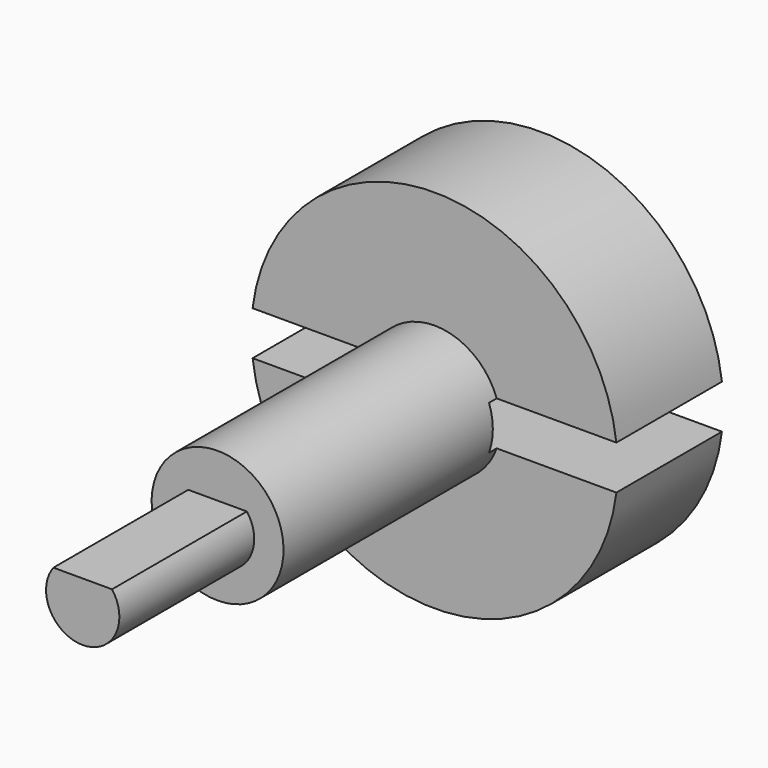
from build123d import *

# Parameters (mm, degrees)
F2_W     = 32.767532
F2_H     = 10.747779
F3_DEPTH = 23
F4_W     = 55
F4_H     = 6
F5_DEPTH = 19.3
F6_R     = 12.5
F7_DEPTH = 1.5


with BuildPart() as f1:
    # F0 (on Right) → F1 (revolve)
    with BuildSketch(Plane.YZ):
        Polygon((30.937984, -25), (30.937984, 0), (-47.062016, 0), (-47.062016, -5), (-24.062016, -5), (-24.062016, -9), (12.937984, -9), (12.937984, -25), align=None)
    revolve(axis=Axis((0, -8.062016, 0), (0, -1, 0)))

    # F2 (on face) → F3 (cut, through all)
    with BuildSketch(Plane.XZ.offset(47.062016)):
        with Locations((-0.172598, 8.37389)):
            Rectangle(F2_W, F2_H)
    extrude(amount=-F3_DEPTH, mode=Mode.SUBTRACT)

    # F4 (on face) → F5 (cut)
    with BuildSketch(Plane(origin=(0, 30.937984, 0), x_dir=(-1, 0, 0), z_dir=(0, 1, 0))):
        Rectangle(F4_W, F4_H)
    extrude(amount=-F5_DEPTH, mode=Mode.SUBTRACT)

    # F6 (on face) → F7 (cut)
    with BuildSketch(Plane(origin=(0, 30.937984, 0), x_dir=(-1, 0, 0), z_dir=(0, 1, 0))):
        Circle(F6_R)
    extrude(amount=-F7_DEPTH, mode=Mode.SUBTRACT)


solid = f1.part
